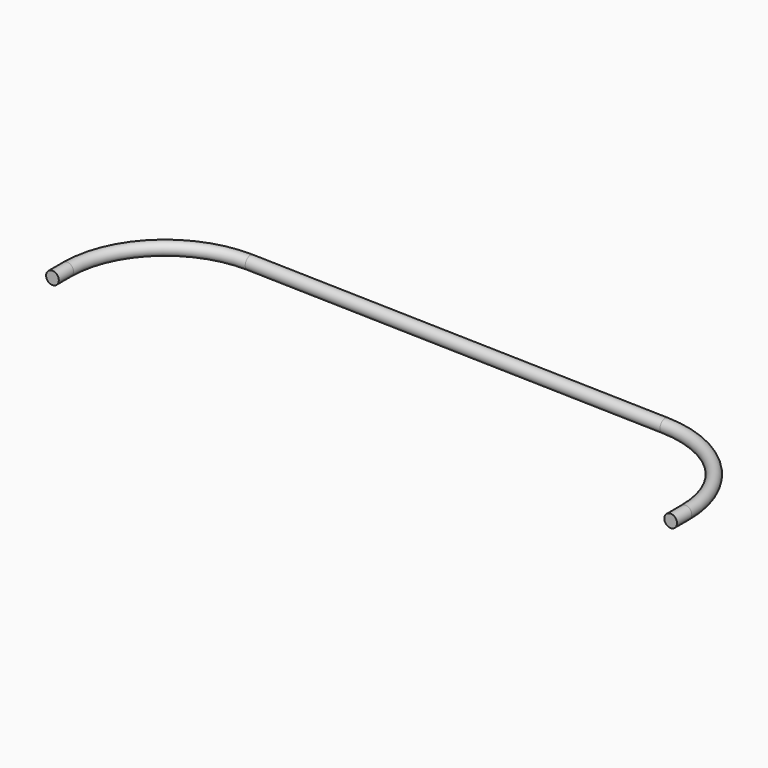
from build123d import *

# Parameters (mm, degrees)
F5_R = 7.9375


with BuildPart() as f6:
    # F6: sweep along a path in F3
    with BuildLine(Plane(origin=(0, 0, 0), x_dir=(0.9997837868, 0, -0.0207937408), z_dir=(-0.0207937408, 0, -0.9997837868))) as f6_path:
        Line((-771.8668878116, 150), (-771.8668878116, 127))
        ThreePointArc((-771.8668878116, 127), (-734.6694490223, 37.1974387893), (-644.8668878116, 0))
        Line((-644.8668878116, 0), (-127, 0))
        ThreePointArc((-127, 0), (-37.1974387893, 37.1974387893), (0, 127))
        Line((0, 127), (0, 150))
    # F5 (on offset) → F6 (sweep)
    with BuildSketch(Plane.XZ.offset(150)):
        Circle(F5_R)
    sweep(path=f6_path.line)


solid = f6.part
